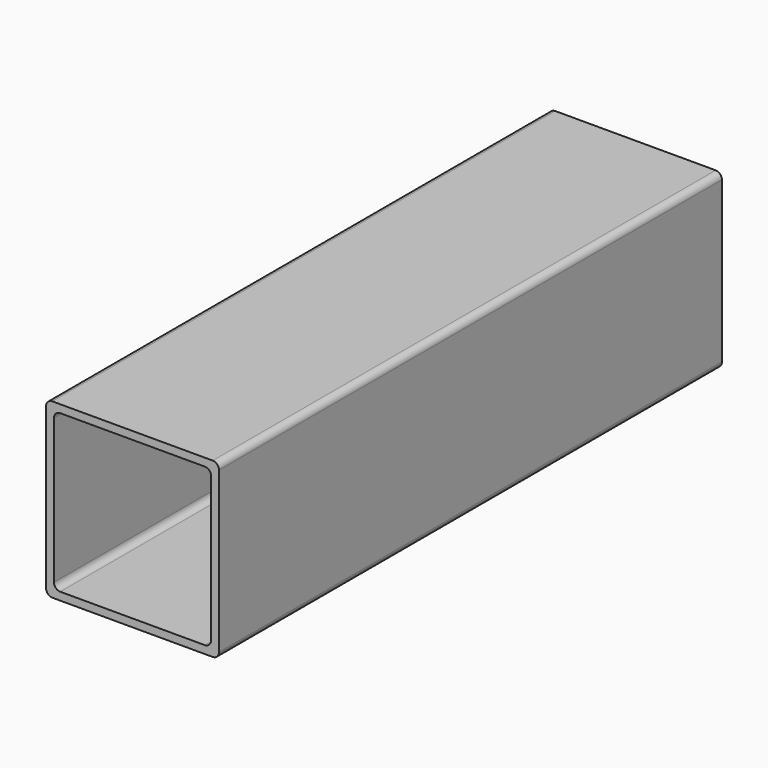
from build123d import *

# Parameters (mm, degrees)
F1_DEPTH = 200


with BuildPart() as f1:
    # F0 (on Front) → F1 (new body)
    with BuildSketch(Plane.XZ):
        with BuildLine():
            ThreePointArc((27.5, 25.5), (26.914214, 26.914214), (25.5, 27.5))
            Line((25.5, 27.5), (-25.5, 27.5))
            ThreePointArc((-25.5, 27.5), (-26.914214, 26.914214), (-27.5, 25.5))
            Line((-27.5, 25.5), (-27.5, -25.5))
            ThreePointArc((-27.5, -25.5), (-26.914214, -26.914214), (-25.5, -27.5))
            Line((-25.5, -27.5), (25.5, -27.5))
            ThreePointArc((25.5, -27.5), (26.914214, -26.914214), (27.5, -25.5))
            Line((27.5, -25.5), (27.5, 25.5))
        make_face()
        with BuildLine():
            Line((-23, 25), (23, 25))
            ThreePointArc((23, 25), (24.414214, 24.414214), (25, 23))
            Line((25, 23), (25, -23))
            ThreePointArc((25, -23), (24.414214, -24.414214), (23, -25))
            Line((23, -25), (-23, -25))
            ThreePointArc((-23, -25), (-24.414214, -24.414214), (-25, -23))
            Line((-25, -23), (-25, 23))
            ThreePointArc((-25, 23), (-24.414214, 24.414214), (-23, 25))
        make_face(mode=Mode.SUBTRACT)
    extrude(amount=-F1_DEPTH)


solid = f1.part
